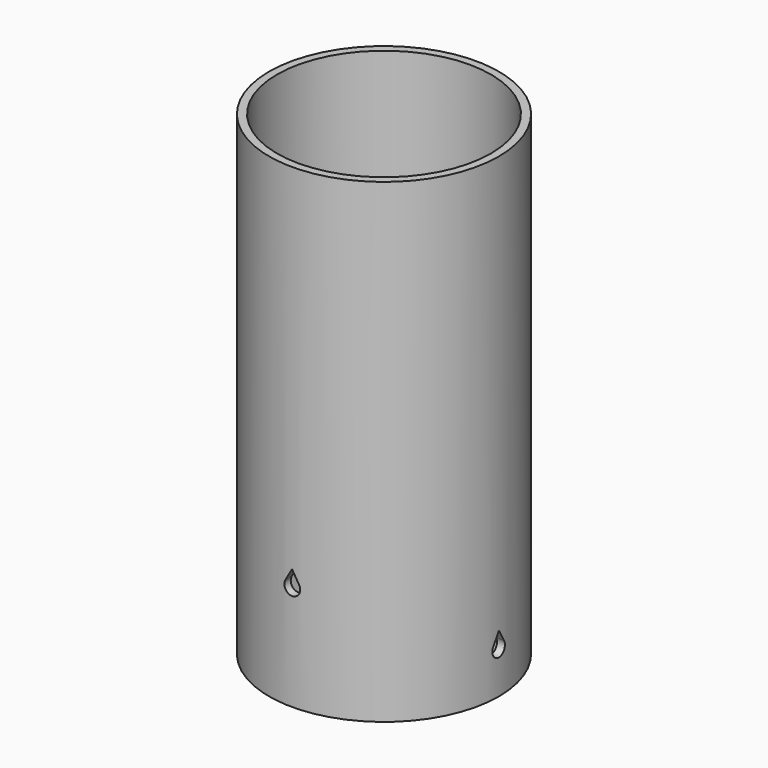
from build123d import *

# Parameters (mm, degrees)
F0_R     = 21.75
F1_DEPTH = 90
F2_R     = 20.25
F3_DEPTH = 88
F5_DEPTH = 25
F7_DEPTH = 25


with BuildPart() as f1:
    # F0 (on Top) → F1 (new body)
    with BuildSketch(Plane.XY):
        Circle(F0_R)
    extrude(amount=F1_DEPTH)

    # F2 (on face) → F3 (cut)
    with BuildSketch(Plane.XY.offset(90)):
        Circle(F2_R)
    extrude(amount=-F3_DEPTH, mode=Mode.SUBTRACT)

    # F4 (on Right) → F5 (cut, symmetric)
    with BuildSketch(Plane.YZ):
        with BuildLine():
            Line((0, 11), (-1.299038, 8.75))
            ThreePointArc((-1.299038, 8.75), (0, 6.5), (1.299038, 8.75))
            Line((1.299038, 8.75), (0, 11))
        make_face()
    extrude(amount=F5_DEPTH, both=True, mode=Mode.SUBTRACT)

    # F6 (on Front) → F7 (cut, symmetric)
    with BuildSketch(Plane.XZ):
        with BuildLine():
            Line((0, 23), (-1.299038, 20.75))
            ThreePointArc((-1.299038, 20.75), (0, 18.5), (1.299038, 20.75))
            Line((1.299038, 20.75), (0, 23))
        make_face()
    extrude(amount=F7_DEPTH, both=True, mode=Mode.SUBTRACT)


solid = f1.part
